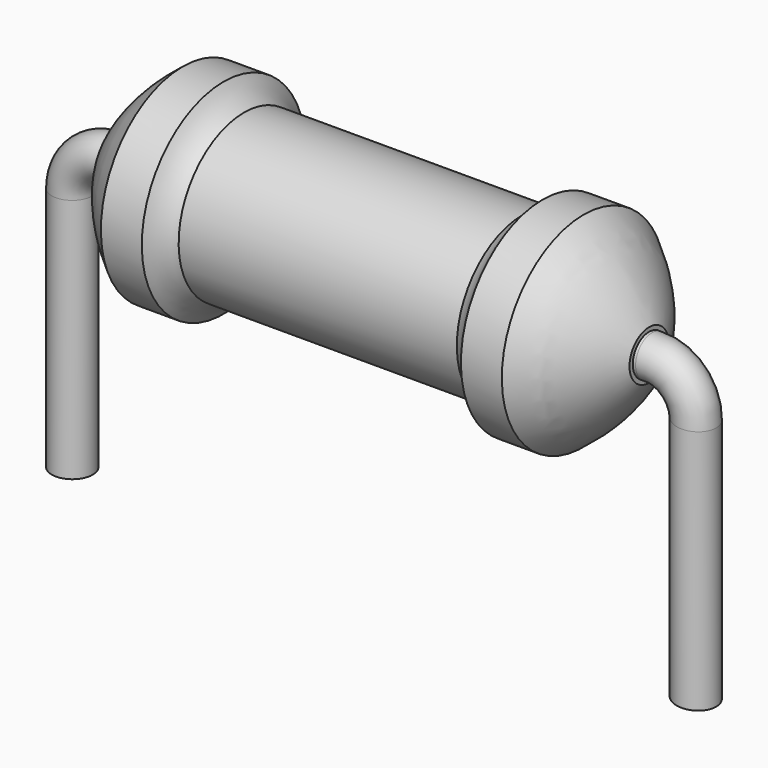
from build123d import *

# Parameters (mm, degrees)
SKETCH_R = 0.25


with BuildPart() as revolution:
    # Sketch002 → Revolution (revolve)
    with BuildSketch(Plane.XZ):
        with BuildLine():
            Line((1.35, 4.75), (1.85, 4.75))
            ThreePointArc((1.85, 4.75), (1.956999, 4.606999), (2.1, 4.5))
            Line((2.1, 4.5), (5.5, 4.5))
            ThreePointArc((5.5, 4.5), (5.643001, 4.606999), (5.75, 4.75))
            Line((5.75, 4.75), (6.25, 4.75))
            ThreePointArc((7.05, 3.8), (6.703637, 4.320168), (6.25, 4.75))
            Line((7.05, 3.5), (7.05, 3.8))
            Line((0.55, 3.5), (7.05, 3.5))
            Line((0.55, 3.5), (0.55, 3.8))
            ThreePointArc((1.35, 4.75), (0.896363, 4.320168), (0.55, 3.8))
        make_face()
    revolve(axis=Axis((0.55, 0, 3.5), (1, 0, 0)))


with BuildPart() as sweep_body:
    # Sweep: sweep along a path in Sketch001
    with BuildLine(Plane.XZ) as sweep_path:
        Line((7.62, 0), (7.62, 3))
        ThreePointArc((7.62, 3), (7.461347, 3.366591), (7.084834, 3.5))
        Line((7.084834, 3.5), (0.5, 3.5))
        ThreePointArc((0.5, 3.5), (0.146447, 3.353553), (0, 3))
        Line((0, 3), (0, 0))
    # Sketch → Sweep (sweep)
    with BuildSketch(Plane.XY):
        Circle(SKETCH_R)
    sweep(path=sweep_path.line, is_frenet=True)


solid = Compound([revolution.part, sweep_body.part])
